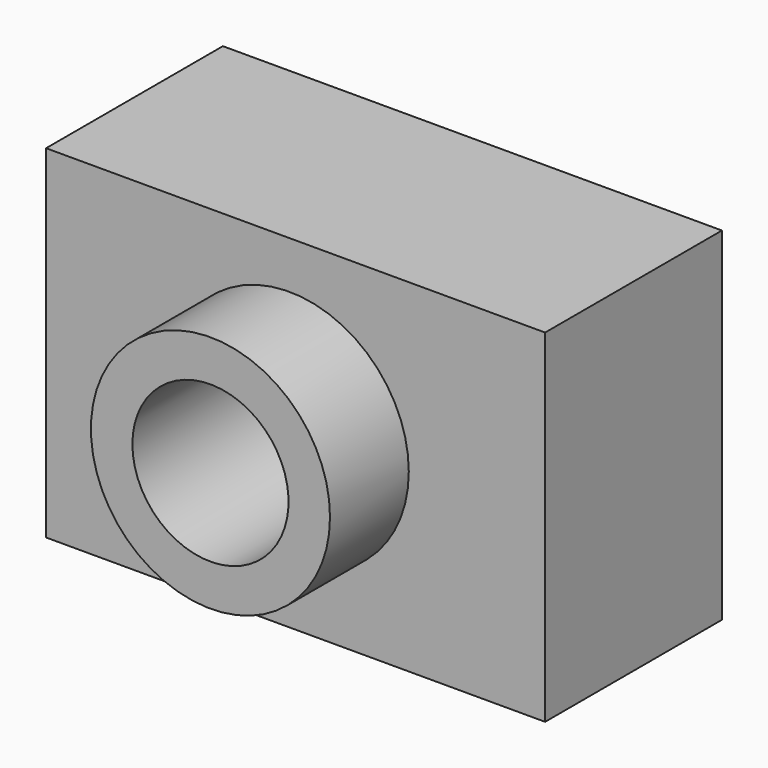
from build123d import *

# Parameters (mm, degrees)
F0_W     = 52.765369
F0_H     = 36.238667
F1_DEPTH = 23.368
F2_R     = 12.639817
F3_DEPTH = 10.414
F5_D     = 16.51


with BuildPart() as f1:
    # F0 (on Front) → F1 (new body)
    with BuildSketch(Plane.XZ):
        with Locations((26.382684, 18.119333)):
            Rectangle(F0_W, F0_H)
    extrude(amount=F1_DEPTH)

    # F2 (on face) → F3 (join)
    with BuildSketch(Plane.XZ.offset(23.368)):
        with Locations((25.712097, 18.603459)):
            Circle(F2_R)
    extrude(amount=F3_DEPTH)

    # F5 (through all)
    with Locations(Plane.XZ.offset(33.782)):
        with Locations((25.712097, 18.603459)):
            Hole(F5_D / 2)


solid = f1.part
